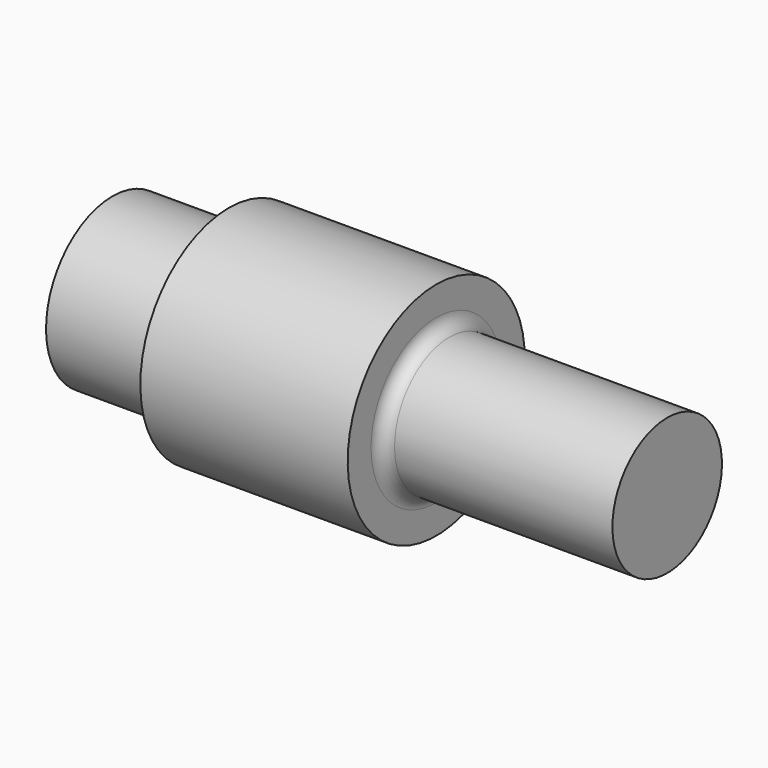
from build123d import *

# Parameters (mm, degrees)
F2_R = 2.54


with BuildPart() as f1:
    # F0 (on Front) → F1 (revolve)
    with BuildSketch(Plane.XZ):
        Polygon((0, 16.135668), (0, 0), (107.793905, 0), (107.793905, 13.30195), (62.919565, 13.30195), (62.919565, 21.513), (22.628129, 21.513), (22.628129, 16.135668), align=None)
    revolve(axis=Axis((53.896952, 0, 0), (-1, 0, 0)))

    # F2
    f2_edges = [f1.edges().sort_by_distance(p)[0] for p in [
        (62.919565, 0, -13.30195),
    ]]
    fillet(f2_edges, radius=F2_R)


solid = f1.part
